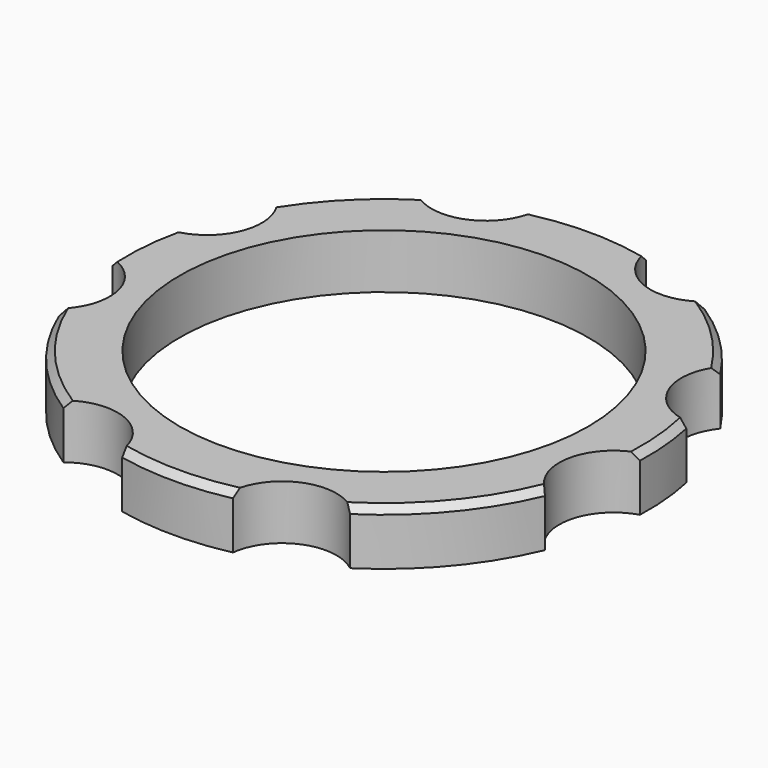
from build123d import *

# Parameters (mm, degrees)
CYLINDER749_R               = 8
CYLINDER749_DEPTH           = 20
CYLINDER749_PLACEMENT_ANGLE = 100
CYLINDER747_R               = 8
CYLINDER747_DEPTH           = 20
CYLINDER747_PLACEMENT_ANGLE = 135
CYLINDER751_R               = 8
CYLINDER751_DEPTH           = 20
CYLINDER753_R               = 8
CYLINDER753_DEPTH           = 20
CYLINDER753_PLACEMENT_ANGLE = 225
CYLINDER746_R               = 8
CYLINDER746_DEPTH           = 20
CYLINDER750_R               = 8
CYLINDER750_DEPTH           = 20
CYLINDER750_PLACEMENT_ANGLE = 55
CYLINDER748_R               = 8
CYLINDER748_DEPTH           = 20
CYLINDER752_R               = 8
CYLINDER752_DEPTH           = 20
CYLINDER752_PLACEMENT_ANGLE = 45
TUBE081_R                   = 38.75
TUBE081_R_2                 = 30
TUBE081_DEPTH               = 8
CHAMFER004_SIZE             = 1


with BuildPart() as obj1:
    # Cylinder749 → Cylinder749 (new body)
    with BuildSketch(Plane.XY):
        Circle(CYLINDER749_R)
    extrude(amount=CYLINDER749_DEPTH)


with BuildPart() as obj1_1:
    # Cylinder749 placement: moved
    add(obj1.part.moved(Location((41.004432, -9.090464, 0))).rotate(Axis((41.004432, -9.090464, 0), (0, 0, 1)), CYLINDER749_PLACEMENT_ANGLE))


with BuildPart() as obj2:
    # Cylinder747 → Cylinder747 (new body)
    with BuildSketch(Plane.XY):
        Circle(CYLINDER747_R)
    extrude(amount=CYLINDER747_DEPTH)


with BuildPart() as obj2_1:
    # Cylinder747 placement: moved
    add(obj2.part.moved(Location((38.80294, 16.072704, 0))).rotate(Axis((38.80294, 16.072704, 0), (0, 0, 1)), CYLINDER747_PLACEMENT_ANGLE))


with BuildPart() as obj3:
    # Cylinder751 → Cylinder751 (new body)
    with BuildSketch(Plane(origin=(16.072704, 38.80294, 0), x_dir=(-1, 0, 0), z_dir=(0, 0, 1))):
        Circle(CYLINDER751_R)
    extrude(amount=CYLINDER751_DEPTH)


with BuildPart() as obj4:
    # Cylinder753 → Cylinder753 (new body)
    with BuildSketch(Plane.XY):
        Circle(CYLINDER753_R)
    extrude(amount=CYLINDER753_DEPTH)


with BuildPart() as obj4_1:
    # Cylinder753 placement: moved
    add(obj4.part.moved(Location((-16.072704, 38.80294, 0))).rotate(Axis((-16.072704, 38.80294, 0), (0, 0, 1)), CYLINDER753_PLACEMENT_ANGLE))


with BuildPart() as obj5:
    # Cylinder746 → Cylinder746 (new body)
    with BuildSketch(Plane(origin=(-38.80294, 16.072704, 0), x_dir=(0, -1, 0), z_dir=(0, 0, 1))):
        Circle(CYLINDER746_R)
    extrude(amount=CYLINDER746_DEPTH)


with BuildPart() as obj6:
    # Cylinder750 → Cylinder750 (new body)
    with BuildSketch(Plane.XY):
        Circle(CYLINDER750_R)
    extrude(amount=CYLINDER750_DEPTH)


with BuildPart() as obj6_1:
    # Cylinder750 placement: moved
    add(obj6.part.moved(Location((-41.004432, -9.090464, 0))).rotate(Axis((-41.004432, -9.090464, 0), (0, 0, -1)), CYLINDER750_PLACEMENT_ANGLE))


with BuildPart() as obj7:
    # Cylinder748 → Cylinder748 (new body)
    with BuildSketch(Plane(origin=(-16.072704, -38.80294, 0), x_dir=(1, 0, 0), z_dir=(0, 0, 1))):
        Circle(CYLINDER748_R)
    extrude(amount=CYLINDER748_DEPTH)


with BuildPart() as compound708:
    # Cylinder752 → Cylinder752 (new body)
    with BuildSketch(Plane.XY):
        Circle(CYLINDER752_R)
    extrude(amount=CYLINDER752_DEPTH)


with BuildPart() as compound708_1:
    # Cylinder752 placement: moved
    add(compound708.part.moved(Location((16.072704, -38.80294, 0))).rotate(Axis((16.072704, -38.80294, 0), (0, 0, 1)), CYLINDER752_PLACEMENT_ANGLE))

    # Compound708: union obj1, obj2, obj3, obj4, obj5, obj6, obj7
    add(obj1_1.part)
    add(obj2_1.part)
    add(obj3.part)
    add(obj4_1.part)
    add(obj5.part)
    add(obj6_1.part)
    add(obj7.part)


with BuildPart() as compound708_2:
    # Compound708 placement: moved
    add(compound708_1.part.moved(Location((0, 0, 56))))


with BuildPart() as chamfer004:
    # Tube081 → Tube081 (new body)
    with BuildSketch(Plane.XY.offset(58)):
        Circle(TUBE081_R)
        Circle(TUBE081_R_2, mode=Mode.SUBTRACT)
    extrude(amount=TUBE081_DEPTH)

    # Cut331: cut Compound708
    add(compound708_2.part, mode=Mode.SUBTRACT)

    # Chamfer004
    chamfer004_edges = [chamfer004.edges().sort_by_distance(p)[0] for p in [
        (38.743471, -0.711323, 66),
        (38.534044, 4.085332, 66),
        (29.684222, -24.90802, 66),
        (0, -38.75, 66),
        (-29.684222, -24.90802, 66),
        (-38.602545, 3.377285, 66),
        (-27.400388, 27.400388, 66),
        (0, 38.75, 66),
        (27.400388, 27.400388, 66),
    ]]
    chamfer(chamfer004_edges, length=CHAMFER004_SIZE)


solid = chamfer004.part
